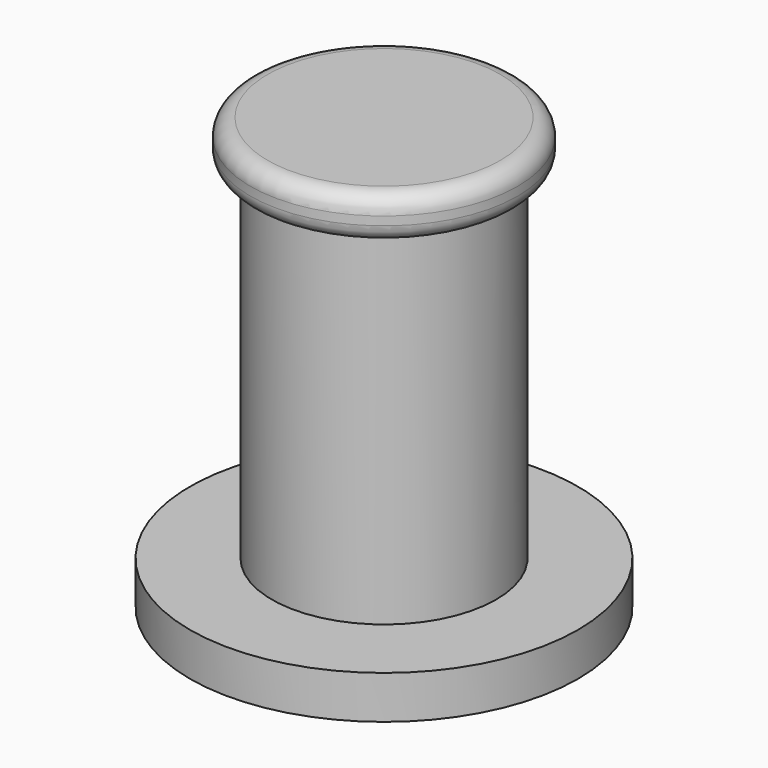
from build123d import *

# Parameters (mm, degrees)
F0_R     = 2.25
F0_R_2   = 1.5
F0_R_3   = 1.3
F1_DEPTH = 0.5
F2_DEPTH = 5
F3_R     = 1.55
F4_DEPTH = 0.5
F5_R     = 0.2


with BuildPart() as f1:
    # F0 (on Top) → F1 (new body)
    with BuildSketch(Plane.XY):
        Circle(F0_R)
        Circle(F0_R_2, mode=Mode.SUBTRACT)
        Circle(F0_R_2)
        Circle(F0_R_3, mode=Mode.SUBTRACT)
        Circle(F0_R_3)
    extrude(amount=F1_DEPTH)

    # F0 (on Top) → F2 (join)
    with BuildSketch(Plane.XY):
        Circle(F0_R_3)
    extrude(amount=F2_DEPTH)

    # F3 (on face) → F4 (join)
    with BuildSketch(Plane.XY.offset(5)):
        Circle(F3_R)
    extrude(amount=-F4_DEPTH)

    # F5
    f5_edges = [f1.edges().sort_by_distance(p)[0] for p in [
        (-1.55, 0, 4.5),
        (-1.55, 0, 5),
    ]]
    fillet(f5_edges, radius=F5_R)


solid = f1.part
